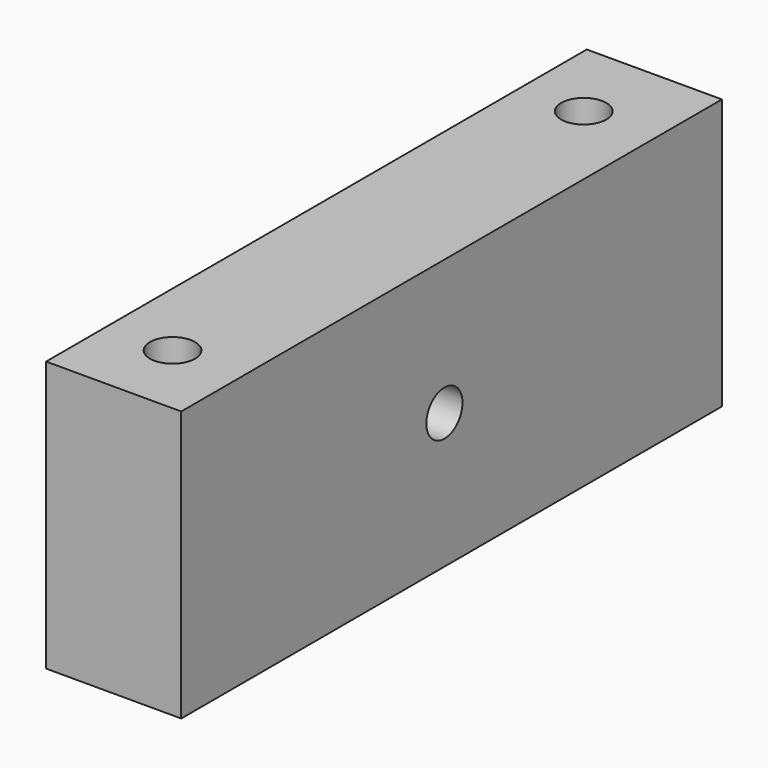
from build123d import *

# Parameters (mm, degrees)
F0_W     = 63.5
F0_H     = 25.4
F1_DEPTH = 12.7
F2_R     = 2.1209
F3_DEPTH = 25.4
F4_R     = 2.1209
F5_DEPTH = 25.4
F6_R     = 2.1209
F7_DEPTH = 25.4


with BuildPart() as f1:
    # F0 (on Right) → F1 (new body)
    with BuildSketch(Plane.YZ):
        with Locations((0.840706, -12.7)):
            Rectangle(F0_W, F0_H)
    extrude(amount=F1_DEPTH)

    # F2 (on face) → F3 (cut)
    with BuildSketch(Plane.XY):
        with Locations((5.956479, 24.791827)):
            Circle(F2_R)
    extrude(amount=-F3_DEPTH, mode=Mode.SUBTRACT)

    # F4 (on face) → F5 (cut)
    with BuildSketch(Plane.XY):
        with Locations((6.136879, -23.729375)):
            Circle(F4_R)
    extrude(amount=-F5_DEPTH, mode=Mode.SUBTRACT)

    # F6 (on face) → F7 (cut)
    with BuildSketch(Plane.YZ.offset(12.7)):
        with Locations((0, -12.7)):
            Circle(F6_R)
    extrude(amount=-F7_DEPTH, mode=Mode.SUBTRACT)


solid = f1.part
